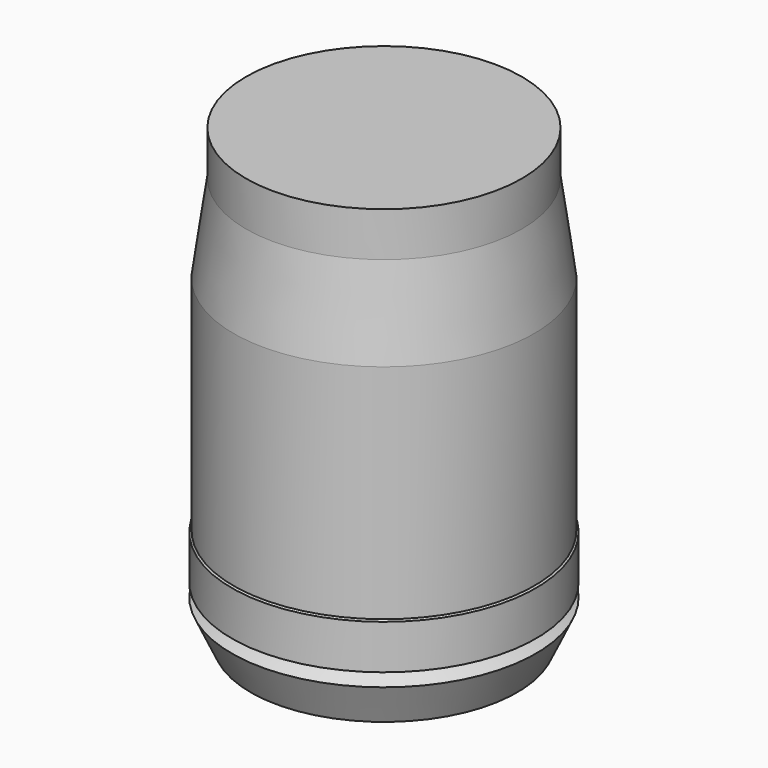
from build123d import *

# Parameters (mm, degrees)
F1_FACE_R = 78.866989
F2_DEPTH  = 25.4


with BuildPart() as f1:
    # F0 (on Front) → F1 (revolve)
    with BuildSketch(Plane.XZ):
        Polygon((0, -254), (0, -19.925557), (-78.866989, -19.925557), (-85.947688, -70.212811), (-85.947688, -197.212811), (-86.925529, -198.023198), (-86.925529, -223.423198), (-78.866989, -227.221664), (-86.925529, -230.975599), (-76.2, -254), align=None)
    revolve(axis=Axis((0, 0, -127), (0, 0, -1)))

    # F1_face (on face) → F2 (join)
    with BuildSketch(Plane.XY.offset(-19.925557)):
        Circle(F1_FACE_R)
    extrude(amount=F2_DEPTH)


solid = f1.part
